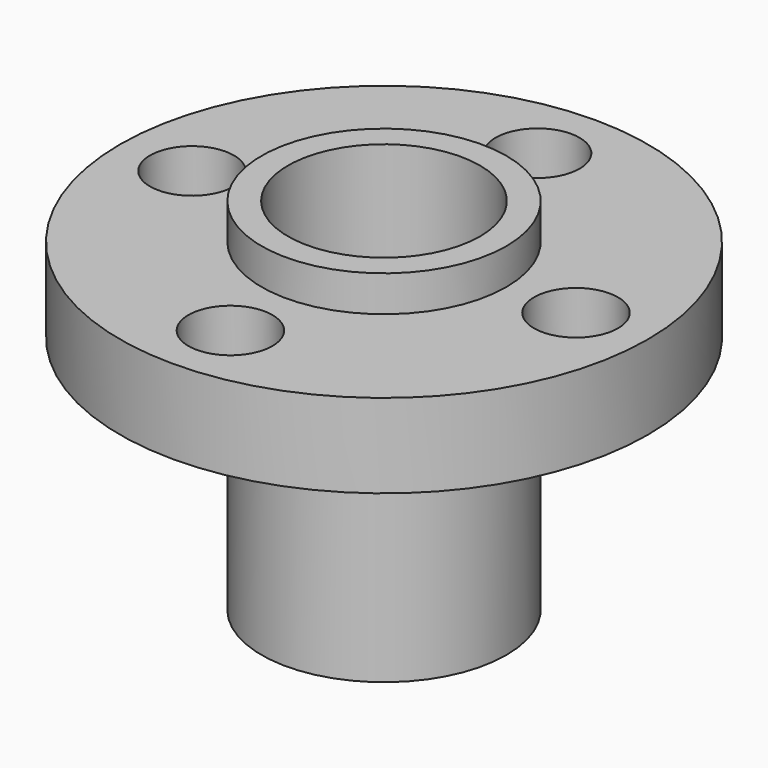
from build123d import *

# Parameters (mm, degrees)
SKETCH_R        = 11
PAD_DEPTH       = 15
SKETCH001_R     = 11
SKETCH001_R_2   = 5.1
POCKET_DEPTH    = 1.5
SKETCH002_R     = 11
SKETCH002_R_2   = 5.1
POCKET001_DEPTH = 10
SKETCH003_R     = 1.75
POCKET002_DEPTH = 13.501
SKETCH004_R     = 4
POCKET003_DEPTH = 15.001


with BuildPart() as part:
    # Sketch → Pad (new body)
    with BuildSketch(Plane.XY):
        Circle(SKETCH_R)
    extrude(amount=PAD_DEPTH)

    # Sketch001 (on Face3 of Pad) → Pocket (cut)
    with BuildSketch(Plane.XY.offset(15)):
        Circle(SKETCH001_R)
        Circle(SKETCH001_R_2, mode=Mode.SUBTRACT)
    extrude(amount=-POCKET_DEPTH, mode=Mode.SUBTRACT)

    # Sketch002 (on Face2 of Pocket) → Pocket001 (cut)
    with BuildSketch(Plane(origin=(0, 0, 0), x_dir=(1, 0, 0), z_dir=(0, 0, -1))):
        Circle(SKETCH002_R)
        Circle(SKETCH002_R_2, mode=Mode.SUBTRACT)
    extrude(amount=-POCKET001_DEPTH, mode=Mode.SUBTRACT)

    # Sketch003 (on Face3 of Pocket001) → Pocket002 (cut, through all)
    with BuildSketch(Plane.XY.offset(13.5)):
        with Locations((8, 0)):
            Circle(SKETCH003_R)
        with Locations((-8, 0)):
            Circle(SKETCH003_R)
        with Locations((0, 8)):
            Circle(SKETCH003_R)
        with Locations((0, -8)):
            Circle(SKETCH003_R)
    extrude(amount=-POCKET002_DEPTH, mode=Mode.SUBTRACT)

    # Sketch004 (on Face11 of Pocket002) → Pocket003 (cut, through all)
    with BuildSketch(Plane.XY.offset(15)):
        Circle(SKETCH004_R)
    extrude(amount=-POCKET003_DEPTH, mode=Mode.SUBTRACT)


solid = part.part
